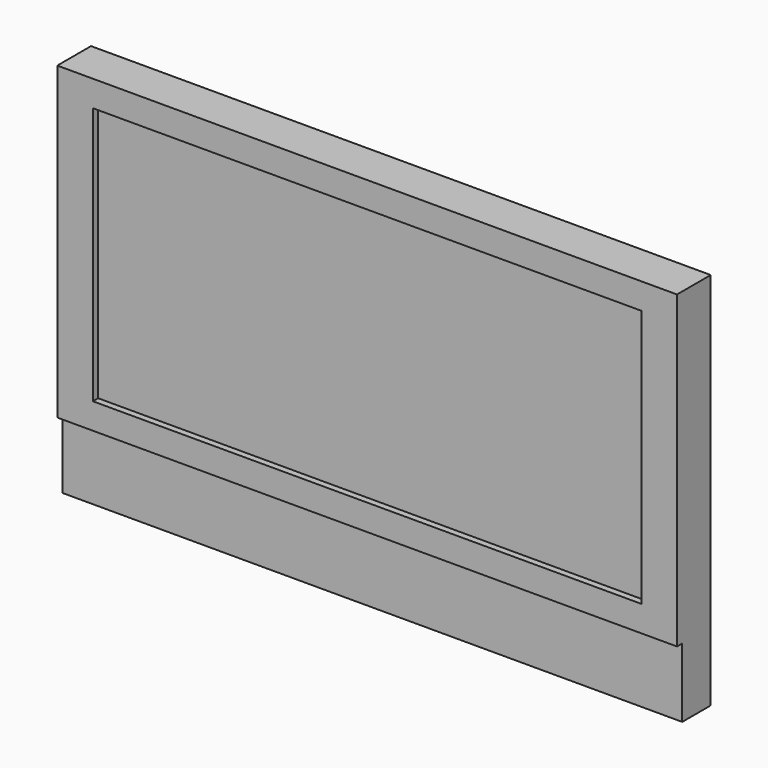
from build123d import *

# Parameters (mm, degrees)
F1_W     = 141.67
F1_H     = 70.844
F1_H_2   = 15.791
F2_DEPTH = 8.14
F3_W     = 125.39
F3_H     = 58.984
F4_DEPTH = 1.5
F5_SCALE = 0.566


with BuildPart() as f2:
    # F1 (on Front) → F2 (new body)
    with BuildSketch(Plane.XZ):
        with Locations((70.835, 51.213)):
            Rectangle(F1_W, F1_H)
        with Locations((70.835, 7.8955)):
            Rectangle(F1_W, F1_H_2)
    extrude(amount=F2_DEPTH)

    # F3 (on offset) → F4 (join)
    with BuildSketch(Plane.XZ.offset(8.14)):
        Polygon((0, 86.635), (0, 15.791), (141.67, 15.791), (141.67, 21.721), (141.67, 80.705), (141.67, 86.635), (133.53, 86.635), (8.14, 86.635), align=None)
        with Locations((70.835, 51.213)):
            Rectangle(F3_W, F3_H, mode=Mode.SUBTRACT)
    extrude(amount=F4_DEPTH)


with BuildPart() as f2_1:
    # F5: moved
    add(f2.part.scale(F5_SCALE))


solid = f2_1.part
